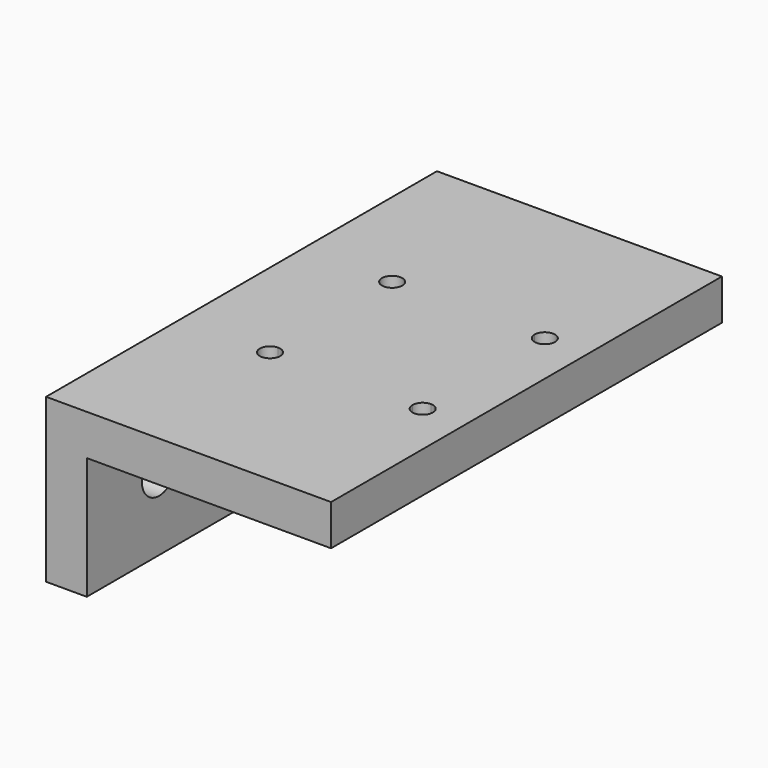
from build123d import *

# Parameters (mm, degrees)
F0_W     = 44.45
F0_H     = 76.2
F1_DEPTH = 6.35
F2_W     = 6.35
F2_H     = 76.2
F3_DEPTH = 19.05
F4_R     = 3.3782
F5_DEPTH = 12.7
F7_DEPTH = 25.4


with BuildPart() as f1:
    # F0 (on Top) → F1 (new body)
    with BuildSketch(Plane.XY):
        with Locations((-75.31851, 26.558877)):
            Rectangle(F0_W, F0_H)
    extrude(amount=F1_DEPTH)

    # F2 (on face) → F3 (join)
    with BuildSketch(Plane(origin=(0, 0, 0), x_dir=(1, 0, 0), z_dir=(0, 0, -1))):
        with Locations((-94.36851, -26.558877)):
            Rectangle(F2_W, F2_H)
    extrude(amount=F3_DEPTH)

    # F4 (on face) → F5 (cut)
    with BuildSketch(Plane(origin=(-97.54351, 0, 0), x_dir=(0, -1, 0), z_dir=(-1, 0, 0))):
        with Locations((-2.555877, -7.5438)):
            Circle(F4_R)
        with Locations((-50.561877, -7.5438)):
            Circle(F4_R)
    extrude(amount=-F5_DEPTH, mode=Mode.SUBTRACT)

    # F6 (on face) → F7 (cut)
    with BuildSketch(Plane(origin=(0, 0, 0), x_dir=(1, 0, 0), z_dir=(0, 0, -1))):
        with BuildLine():
            ThreePointArc((-83.57351, -16.240127), (-82.450978, -15.775159), (-81.98601, -14.652627))
            Line((-81.98601, -14.652627), (-83.57351, -14.652627))
            Line((-83.57351, -14.652627), (-83.57351, -16.240127))
        make_face()
        with BuildLine():
            Line((-83.57351, -14.652627), (-81.98601, -14.652627))
            ThreePointArc((-81.98601, -14.652627), (-84.696042, -13.530094), (-83.57351, -16.240127))
            Line((-83.57351, -16.240127), (-83.57351, -14.652627))
        make_face()
        with BuildLine():
            Line((-59.76101, -14.652627), (-61.34851, -14.652627))
            ThreePointArc((-61.34851, -14.652627), (-60.883542, -15.775159), (-59.76101, -16.240127))
            Line((-59.76101, -16.240127), (-59.76101, -14.652627))
        make_face()
        with BuildLine():
            ThreePointArc((-58.17351, -14.652627), (-59.76101, -13.065127), (-61.34851, -14.652627))
            Line((-61.34851, -14.652627), (-59.76101, -14.652627))
            Line((-59.76101, -14.652627), (-59.76101, -16.240127))
            ThreePointArc((-59.76101, -16.240127), (-58.638478, -15.775159), (-58.17351, -14.652627))
        make_face()
        with BuildLine():
            Line((-83.57351, -38.465127), (-83.57351, -36.877627))
            ThreePointArc((-83.57351, -36.877627), (-84.696042, -39.587659), (-81.98601, -38.465127))
            Line((-81.98601, -38.465127), (-83.57351, -38.465127))
        make_face()
        with BuildLine():
            ThreePointArc((-81.98601, -38.465127), (-82.450978, -37.342594), (-83.57351, -36.877627))
            Line((-83.57351, -36.877627), (-83.57351, -38.465127))
            Line((-83.57351, -38.465127), (-81.98601, -38.465127))
        make_face()
        with BuildLine():
            ThreePointArc((-58.17351, -38.465127), (-58.638478, -37.342594), (-59.76101, -36.877627))
            Line((-59.76101, -36.877627), (-59.76101, -38.465127))
            Line((-59.76101, -38.465127), (-61.34851, -38.465127))
            ThreePointArc((-61.34851, -38.465127), (-59.76101, -40.052627), (-58.17351, -38.465127))
        make_face()
        with BuildLine():
            Line((-59.76101, -38.465127), (-59.76101, -36.877627))
            ThreePointArc((-59.76101, -36.877627), (-60.883542, -37.342594), (-61.34851, -38.465127))
            Line((-61.34851, -38.465127), (-59.76101, -38.465127))
        make_face()
    extrude(amount=-F7_DEPTH, mode=Mode.SUBTRACT)


solid = f1.part
